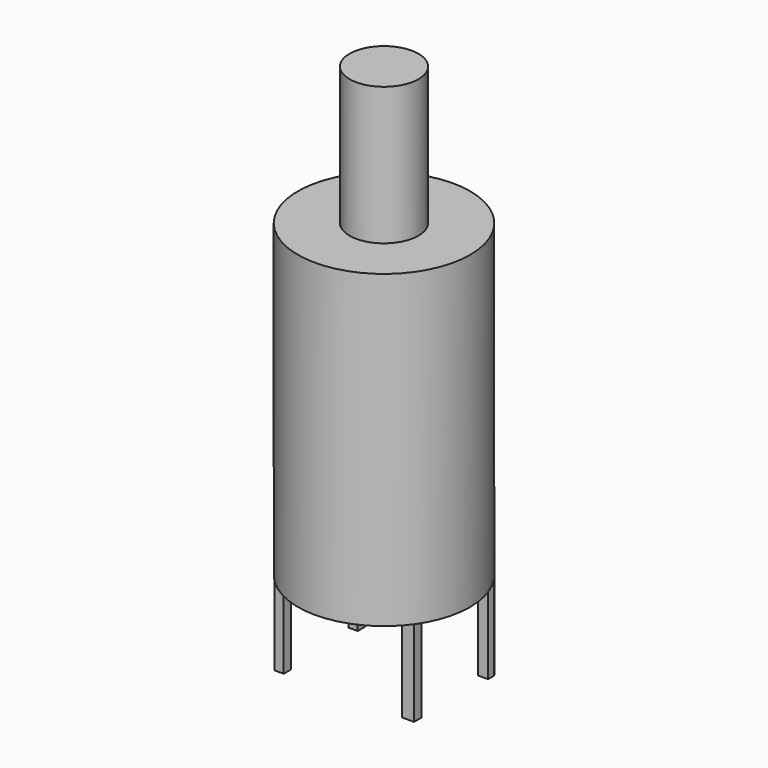
from build123d import *

# Parameters (mm, degrees)
F0_R     = 1524
F1_DEPTH = 5486.4
F2_R     = 609.6
F3_DEPTH = 2438.4
F4_W     = 159.824014
F4_H     = 160.022378
F4_W_2   = 214.063644
F5_DEPTH = 1524


with BuildPart() as f1:
    # F0 (on Top) → F1 (new body)
    with BuildSketch(Plane.XY):
        Circle(F0_R)
    extrude(amount=F1_DEPTH)

    # F2 (on face) → F3 (join)
    with BuildSketch(Plane.XY.offset(5486.4)):
        Circle(F2_R)
    extrude(amount=F3_DEPTH)

    # F4 (on face) → F5 (join)
    with BuildSketch(Plane.XY):
        with Locations((-1148.932874, -801.863968)):
            Rectangle(F4_W, F4_H)
        with BuildLine():
            Line((-1069.020867, 754.514396), (-1069.020867, 918.411493))
            Line((-1069.020867, 918.411493), (-1216.181043, 918.411493))
            ThreePointArc((-1216.181043, 918.411493), (-1222.542562, 909.926197), (-1228.844881, 901.396837))
            Line((-1228.844881, 901.396837), (-1228.844881, 754.514396))
            Line((-1228.844881, 754.514396), (-1069.020867, 754.514396))
        make_face()
        with BuildLine():
            Line((1216.181043, 918.411493), (1060.038924, 918.411493))
            Line((1060.038924, 918.411493), (1060.038924, 754.514396))
            Line((1060.038924, 754.514396), (1236.469984, 754.514396))
            Line((1236.469984, 754.514396), (1236.469984, 890.908513))
            ThreePointArc((1236.469984, 890.908513), (1226.402613, 904.716879), (1216.181043, 918.411493))
        make_face()
        with Locations((1129.438162, -801.863968)):
            Rectangle(F4_W_2, F4_H)
    extrude(amount=-F5_DEPTH)


solid = f1.part
